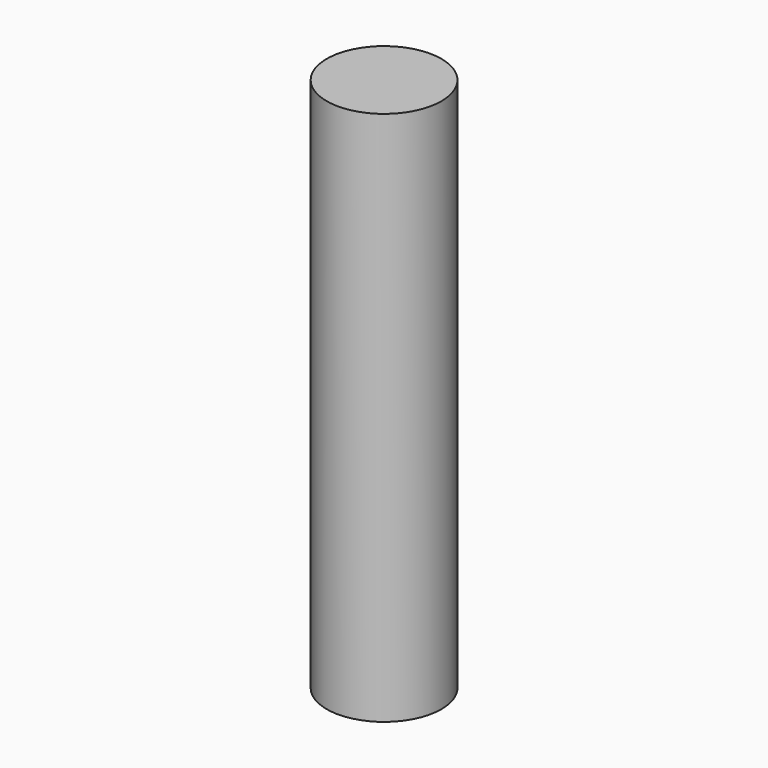
from build123d import *

# Parameters (mm, degrees)
SKETCH_R  = 1.5
PAD_DEPTH = 14


with BuildPart() as part:
    # Sketch → Pad (new body)
    with BuildSketch(Plane.XY):
        Circle(SKETCH_R)
    extrude(amount=PAD_DEPTH)


solid = part.part
